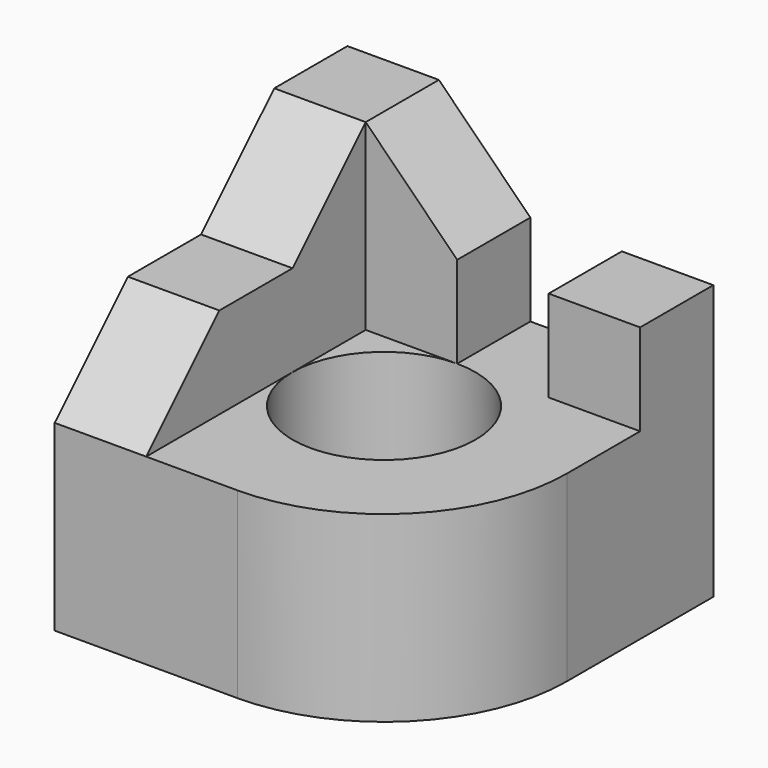
from build123d import *

# Parameters (mm, degrees)
PAD_DEPTH    = 20
SKETCH001_R  = 10
POCKET_DEPTH = 20.001
PAD001_DEPTH = 10
PAD002_DEPTH = 10
SKETCH004_W  = 10
SKETCH004_H  = 10
PAD003_DEPTH = 10


with BuildPart() as part:
    # Sketch → Pad (new body)
    with BuildSketch(Plane.XY):
        with BuildLine():
            Line((-20, -20), (0, -20))
            ThreePointArc((0, -20), (14.142136, -14.142136), (20, 0))
            Line((20, 0), (20, 20))
            Line((20, 20), (-20, 20))
            Line((-20, 20), (-20, -20))
        make_face()
    extrude(amount=PAD_DEPTH)

    # Sketch001 (on Face7 of Pad) → Pocket (cut, through all)
    with BuildSketch(Plane.XY.offset(20)):
        Circle(SKETCH001_R)
    extrude(amount=-POCKET_DEPTH, mode=Mode.SUBTRACT)

    # Sketch002 (on Face2 of Pocket) → Pad001 (join)
    with BuildSketch(Plane(origin=(-20, 0, 0), x_dir=(0, -1, 0), z_dir=(-1, 0, 0))):
        Polygon((-20, 20), (-20, 40), (-10, 40), (0, 30), (10, 30), (20, 20), align=None)
    extrude(amount=-PAD001_DEPTH)

    # Sketch003 (on Face13 of Pad001) → Pad002 (join)
    with BuildSketch(Plane(origin=(0, 20, 0), x_dir=(-1, 0, 0), z_dir=(0, 1, 0))):
        Polygon((10, 40), (0, 30), (0, 20), (10, 20), align=None)
    extrude(amount=-PAD002_DEPTH)

    # Sketch004 (on Face6 of Pad002) → Pad003 (join)
    with BuildSketch(Plane.XY.offset(20)):
        with Locations((15, 15)):
            Rectangle(SKETCH004_W, SKETCH004_H)
    extrude(amount=PAD003_DEPTH)


solid = part.part
